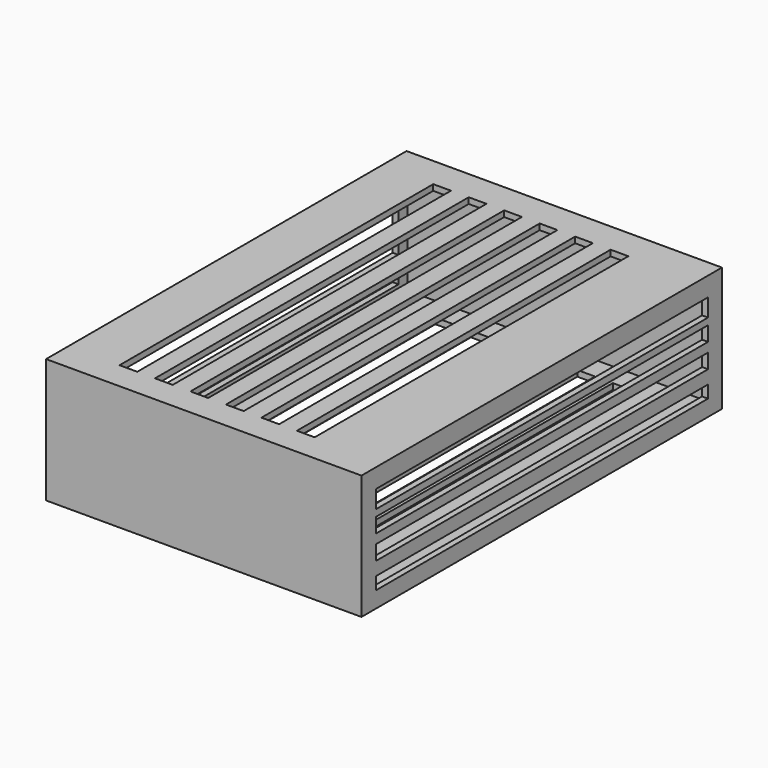
from build123d import *

# Parameters (mm, degrees)
F0_W      = 213.36
F0_H      = 304.8
F0_W_2    = 205.36
F0_H_2    = 296.8
F1_DEPTH  = 4
F2_DEPTH  = 76.2
F3_W      = 213.36
F3_H      = 304.8
F3_W_2    = 205.36
F3_H_2    = 296.8
F4_DEPTH  = 4
F5_W      = 12
F5_H      = 265.28765991
F6_DEPTH  = 5.08
F7_W      = 12
F7_H      = 265.28765991
F8_DEPTH  = 5.08
F9_W      = 280.9167951345
F9_H      = 12.0694674551
F9_H_2    = 9.9573098123
F9_H_3    = 9.957306087
F9_H_4    = 8.4486240521
F10_DEPTH = 287.02


with BuildPart() as f1:
    # F0 (on Top) → F1 (new body)
    with BuildSketch(Plane.XY):
        Rectangle(F0_W, F0_H)
        Rectangle(F0_W_2, F0_H_2, mode=Mode.SUBTRACT)
        Rectangle(F0_W_2, F0_H_2)
    extrude(amount=-F1_DEPTH)

    # F0 (on Top) → F2 (join)
    with BuildSketch(Plane.XY):
        Rectangle(F0_W, F0_H)
        Rectangle(F0_W_2, F0_H_2, mode=Mode.SUBTRACT)
    extrude(amount=F2_DEPTH)

    # F3 (on face) → F4 (join)
    with BuildSketch(Plane.XY.offset(76.2)):
        Rectangle(F3_W, F3_H)
        Rectangle(F3_W_2, F3_H_2, mode=Mode.SUBTRACT)
        Rectangle(F3_W_2, F3_H_2)
    extrude(amount=F4_DEPTH)

    # F5 (on face) → F6 (cut)
    with BuildSketch(Plane.XY.offset(80.2)):
        with Locations((-66, -1.0106861591)):
            Rectangle(F5_W, F5_H)
        with Locations((-42, -1.0106861591)):
            Rectangle(F5_W, F5_H)
        with Locations((-18, -1.0106861591)):
            Rectangle(F5_W, F5_H)
        with Locations((6, -1.0106861591)):
            Rectangle(F5_W, F5_H)
        with Locations((30, -1.0106861591)):
            Rectangle(F5_W, F5_H)
        with Locations((54, -1.0106861591)):
            Rectangle(F5_W, F5_H)
    extrude(amount=-F6_DEPTH, mode=Mode.SUBTRACT)

    # F7 (on face) → F8 (cut)
    with BuildSketch(Plane(origin=(0, 0, -4), x_dir=(1, 0, 0), z_dir=(0, 0, -1))):
        with Locations((-66, -0.8343393173)):
            Rectangle(F7_W, F7_H)
        with Locations((-42, -0.8343393173)):
            Rectangle(F7_W, F7_H)
        with Locations((-18, -0.8343393173)):
            Rectangle(F7_W, F7_H)
        with Locations((6, -0.8343393173)):
            Rectangle(F7_W, F7_H)
        with Locations((30, -0.8343393173)):
            Rectangle(F7_W, F7_H)
        with Locations((54, -0.8343393173)):
            Rectangle(F7_W, F7_H)
    extrude(amount=-F8_DEPTH, mode=Mode.SUBTRACT)

    # F9 (on face) → F10 (cut)
    with BuildSketch(Plane(origin=(-106.68, 0, 0), x_dir=(0, -1, 0), z_dir=(-1, 0, 0))):
        with Locations((-0.1723989844, 61.221299693)):
            Rectangle(F9_W, F9_H)
        with Locations((-0.1723989844, 45.6818621606)):
            Rectangle(F9_W, F9_H_2)
        with Locations((-0.1723989844, 29.3880850077)):
            Rectangle(F9_W, F9_H_3)
        with Locations((-0.1723989844, 11.1330202781)):
            Rectangle(F9_W, F9_H_4)
    extrude(amount=-F10_DEPTH, mode=Mode.SUBTRACT)


solid = f1.part
